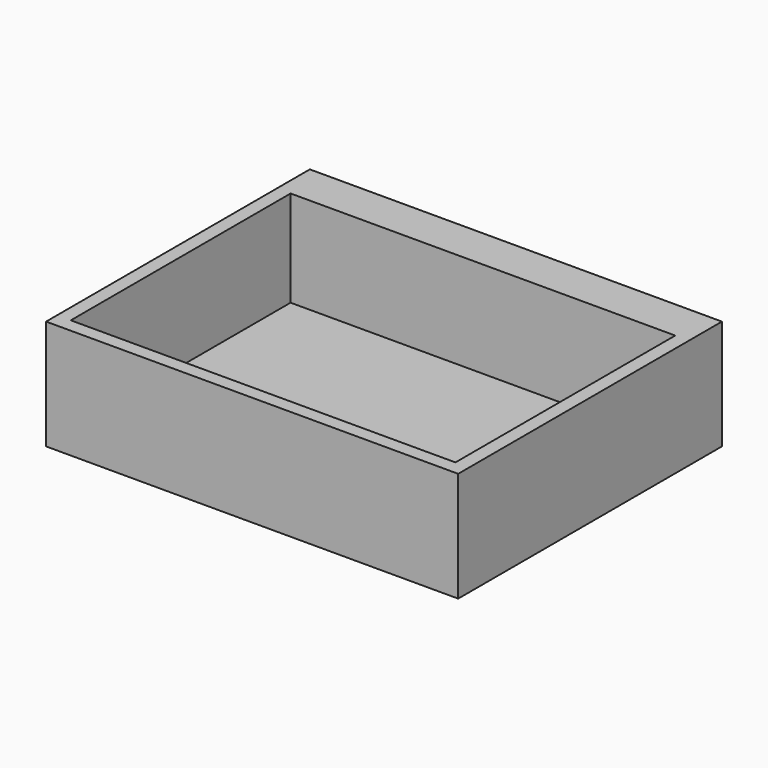
from build123d import *

# Parameters (mm, degrees)
F0_W     = 95.25
F0_H     = 76.2
F0_W_2   = 88.9
F0_H_2   = 63.5
F1_DEPTH = 25.4
F2_W     = 88.9
F2_H     = 63.5
F3_DEPTH = 3.175


with BuildPart() as f1:
    # F0 (on Top) → F1 (new body)
    with BuildSketch(Plane.XY):
        with Locations((0, 3.175)):
            Rectangle(F0_W, F0_H)
        Rectangle(F0_W_2, F0_H_2, mode=Mode.SUBTRACT)
    extrude(amount=F1_DEPTH)

    # F2 (on Top) → F3 (join)
    with BuildSketch(Plane.XY):
        Rectangle(F2_W, F2_H)
    extrude(amount=F3_DEPTH)


solid = f1.part
